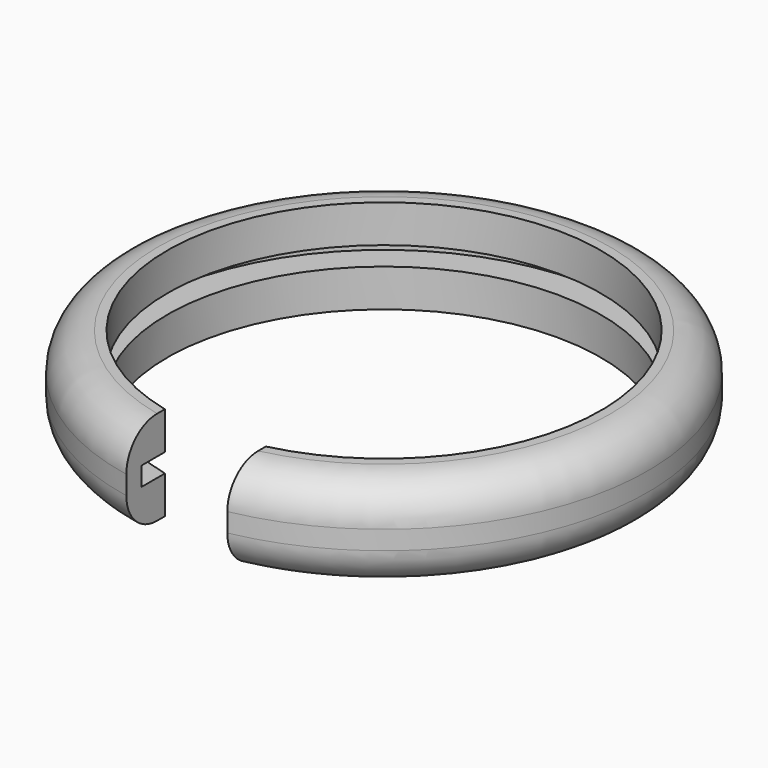
from build123d import *

# Parameters (mm, degrees)
F0_R      = 17.78
F1_DEPTH  = 2.54
F2_R      = 17.78
F2_R_2    = 16.51
F3_DEPTH  = 1.27
F4_R      = 17.78
F5_DEPTH  = 2.54
F6_R      = 14.605
F7_DEPTH  = 50.8
F8_R      = 2.54
F10_DEPTH = 30.734


with BuildPart() as f1:
    # F0 (on Top) → F1 (new body)
    with BuildSketch(Plane.XY):
        Circle(F0_R)
    extrude(amount=F1_DEPTH)

    # F2 (on face) → F3 (join)
    with BuildSketch(Plane.XY.offset(2.54)):
        Circle(F2_R)
        Circle(F2_R_2, mode=Mode.SUBTRACT)
    extrude(amount=F3_DEPTH)

    # F4 (on face) → F5 (join)
    with BuildSketch(Plane.XY.offset(3.81)):
        Circle(F4_R)
    extrude(amount=F5_DEPTH)

    # F6 (on face) → F7 (cut)
    with BuildSketch(Plane(origin=(0, 0, 0), x_dir=(1, 0, 0), z_dir=(0, 0, -1))):
        Circle(F6_R)
    extrude(amount=-F7_DEPTH, mode=Mode.SUBTRACT)

    # F8
    f8_edges = [f1.edges().sort_by_distance(p)[0] for p in [
        (-17.78, 0, 6.35),
        (-17.78, 0, 0),
    ]]
    fillet(f8_edges, radius=F8_R)

    # F9 (on face) → F10 (cut)
    with BuildSketch(Plane.XY.offset(6.35)):
        with BuildLine():
            Line((-3.4012887627, -22.1683233976), (3.4012887627, -22.1683233976))
            Line((3.4012887627, -22.1683233976), (3.4012887627, -14.855599441))
            ThreePointArc((3.4012887627, -14.855599441), (0, -15.24), (-3.4012887627, -14.855599441))
            Line((-3.4012887627, -14.855599441), (-3.4012887627, -22.1683233976))
        make_face()
        with BuildLine():
            ThreePointArc((-3.4012887627, -14.2034242263), (0, -14.605), (3.4012887627, -14.2034242263))
            Line((3.4012887627, -14.2034242263), (3.4012887627, -10.824047029))
            Line((3.4012887627, -10.824047029), (-3.4012887627, -10.824047029))
            Line((-3.4012887627, -10.824047029), (-3.4012887627, -14.2034242263))
        make_face()
        with BuildLine():
            ThreePointArc((-3.4012887627, -14.855599441), (0, -15.24), (3.4012887627, -14.855599441))
            Line((3.4012887627, -14.855599441), (3.4012887627, -14.2034242263))
            ThreePointArc((3.4012887627, -14.2034242263), (0, -14.605), (-3.4012887627, -14.2034242263))
            Line((-3.4012887627, -14.2034242263), (-3.4012887627, -14.855599441))
        make_face()
    extrude(amount=-F10_DEPTH, mode=Mode.SUBTRACT)


solid = f1.part
